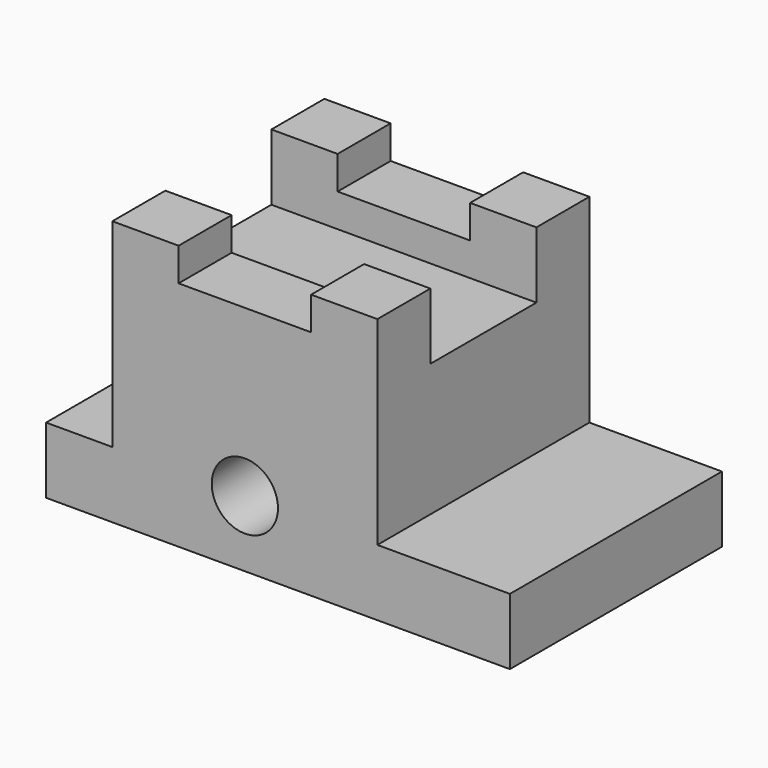
from build123d import *

# Parameters (mm, degrees)
F0_W      = 88.9
F0_H      = 38.1
F1_DEPTH  = 50.8
F2_W      = 12.7
F2_H      = 25.4
F3_DEPTH  = 50.801
F4_W      = 25.4
F4_H      = 25.4
F5_DEPTH  = 50.801
F6_W      = 50.8
F6_H      = 12.7
F7_DEPTH  = 6.35
F8_W      = 12.7
F8_H      = 12.7
F9_DEPTH  = 6.35
F10_W     = 12.7
F10_H     = 12.7
F11_DEPTH = 6.35
F12_R     = 6.35
F13_DEPTH = 50.801


with BuildPart() as f1:
    # F0 (on Front) → F1 (new body)
    with BuildSketch(Plane.XZ):
        Rectangle(F0_W, F0_H)
    extrude(amount=F1_DEPTH)

    # F2 (on face) → F3 (cut, through all)
    with BuildSketch(Plane.XZ.offset(50.8)):
        with Locations((-38.1, 6.35)):
            Rectangle(F2_W, F2_H)
    extrude(amount=-F3_DEPTH, mode=Mode.SUBTRACT)

    # F4 (on face) → F5 (cut, through all)
    with BuildSketch(Plane.XZ.offset(50.8)):
        with Locations((31.75, 6.35)):
            Rectangle(F4_W, F4_H)
    extrude(amount=-F5_DEPTH, mode=Mode.SUBTRACT)

    # F6 (on face) → F7 (join)
    with BuildSketch(Plane.XY.offset(19.05)):
        with Locations((-6.35, -6.35)):
            Rectangle(F6_W, F6_H)
        with Locations((-6.35, -44.45)):
            Rectangle(F6_W, F6_H)
    extrude(amount=F7_DEPTH)

    # F8 (on face) → F9 (join)
    with BuildSketch(Plane.XY.offset(25.4)):
        with Locations((-25.4, -6.35)):
            Rectangle(F8_W, F8_H)
        with Locations((12.7, -6.35)):
            Rectangle(F8_W, F8_H)
    extrude(amount=F9_DEPTH)

    # F10 (on face) → F11 (join)
    with BuildSketch(Plane.XY.offset(25.4)):
        with Locations((-25.4, -44.45)):
            Rectangle(F10_W, F10_H)
        with Locations((12.7, -44.45)):
            Rectangle(F10_W, F10_H)
    extrude(amount=F11_DEPTH)

    # F12 (on face) → F13 (cut, through all)
    with BuildSketch(Plane.XZ.offset(50.8)):
        with Locations((-6.35, -6.35)):
            Circle(F12_R)
    extrude(amount=-F13_DEPTH, mode=Mode.SUBTRACT)


solid = f1.part
